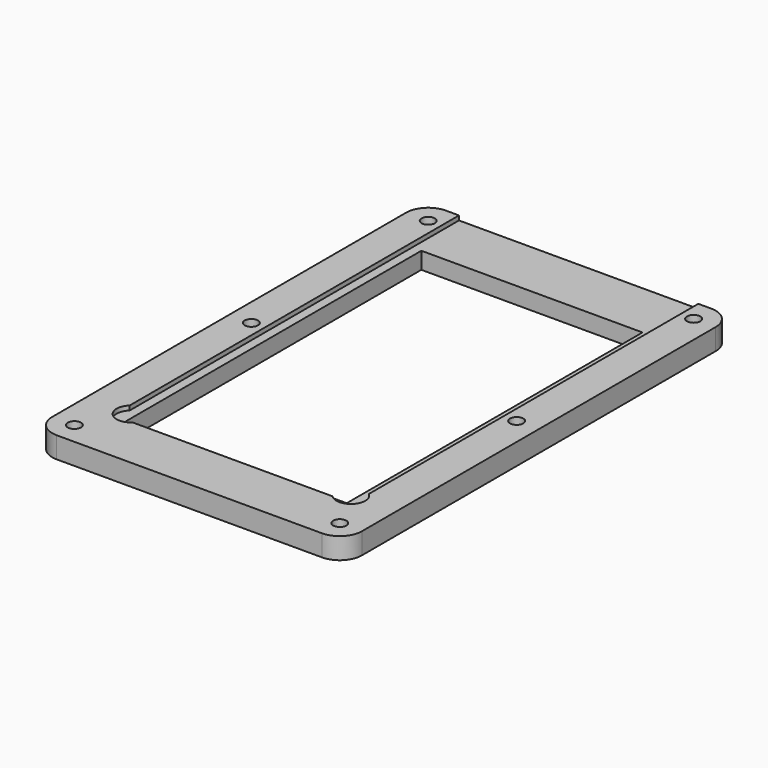
from build123d import *

# Parameters (mm, degrees)
F0_R     = 1.5
F1_DEPTH = 1
F2_DEPTH = 3.8
F3_DEPTH = 4.8


with BuildPart() as f1:
    # F0 (on Top) → F1 (new body)
    with BuildSketch(Plane.XY):
        with Locations((-30, 50)):
            Circle(F0_R)
    extrude(amount=F1_DEPTH)



with BuildPart() as f1b:
    # F0 (on Top) → F1, piece 2 (new body)
    with BuildSketch(Plane.XY):
        with Locations((30, 50)):
            Circle(F0_R)
    extrude(amount=F1_DEPTH)


with BuildPart() as f1c:
    # F0 (on Top) → F1, piece 3 (new body)
    with BuildSketch(Plane.XY):
        with Locations((30, 0)):
            Circle(F0_R)
    extrude(amount=F1_DEPTH)


with BuildPart() as f1d:
    # F0 (on Top) → F1, piece 4 (new body)
    with BuildSketch(Plane.XY):
        with Locations((30, -50)):
            Circle(F0_R)
    extrude(amount=F1_DEPTH)


with BuildPart() as f1e:
    # F0 (on Top) → F1, piece 5 (new body)
    with BuildSketch(Plane.XY):
        with Locations((-30, -50)):
            Circle(F0_R)
    extrude(amount=F1_DEPTH)


with BuildPart() as f1f:
    # F0 (on Top) → F1, piece 6 (new body)
    with BuildSketch(Plane.XY):
        with Locations((-30, 0)):
            Circle(F0_R)
    extrude(amount=F1_DEPTH)


with BuildPart() as f2:
    # F0 (on Top) → F2 (new body)
    with BuildSketch(Plane.XY):
        with BuildLine():
            Line((27.05, 42.8), (27.05, 55))
            Line((27.05, 55), (-27.05, 55))
            Line((-27.05, 55), (-27.05, 42.8))
            Line((-27.05, 42.8), (-27.05, -38.0607364771))
            ThreePointArc((-27.05, -38.0607364771), (-26.1012649001, -37.4476793164), (-25, -37.196376726))
            Line((-25, -37.196376726), (-25, 41.8))
            Line((-25, 41.8), (25, 41.8))
            Line((25, 41.8), (25, -37.2939372294))
            ThreePointArc((25, -37.2939372294), (26.0922729799, -37.5033114474), (27.05, -38.0686934251))
            Line((27.05, -38.0686934251), (27.05, 42.8))
        make_face()
        with BuildLine():
            ThreePointArc((-25, -37.196376726), (-26.1012649001, -37.4476793164), (-27.05, -38.0607364771))
            Line((-27.05, -38.0607364771), (-27.05, -42.8))
            Line((-27.05, -42.8), (-22.6016124349, -42.8))
            ThreePointArc((-22.6016124349, -42.8), (-22.1959427347, -42.3341702613), (-21.8857373462, -41.8))
            Line((-21.8857373462, -41.8), (-25, -41.8))
            Line((-25, -41.8), (-25, -37.196376726))
        make_face()
        with BuildLine():
            Line((-27.05, -42.8), (-27.05, -38.0607364771))
            ThreePointArc((-27.05, -38.0607364771), (-27.208254731, -42.6665921352), (-22.6016124349, -42.8))
            Line((-22.6016124349, -42.8), (-27.05, -42.8))
        make_face()
        with BuildLine():
            ThreePointArc((-21.8857373462, -41.8), (-22.1959427347, -42.3341702613), (-22.6016124349, -42.8))
            Line((-22.6016124349, -42.8), (22.6044172499, -42.8))
            ThreePointArc((22.6044172499, -42.8), (22.2287912639, -42.3305781393), (21.9460571083, -41.8))
            Line((21.9460571083, -41.8), (-21.8857373462, -41.8))
        make_face()
        with BuildLine():
            Line((27.05, -42.8), (27.05, -38.0686934251))
            ThreePointArc((27.05, -38.0686934251), (26.0922729799, -37.5033114474), (25, -37.2939372294))
            Line((25, -37.2939372294), (25, -41.8))
            Line((25, -41.8), (21.9460571083, -41.8))
            ThreePointArc((21.9460571083, -41.8), (22.2287912639, -42.3305781393), (22.6044172499, -42.8))
            Line((22.6044172499, -42.8), (27.05, -42.8))
        make_face()
        with BuildLine():
            ThreePointArc((28.1933165581, -40.5434428822), (27.8936742641, -39.1803987131), (27.05, -38.0686934251))
            Line((27.05, -38.0686934251), (27.05, -42.8))
            Line((27.05, -42.8), (22.6044172499, -42.8))
            ThreePointArc((22.6044172499, -42.8), (26.1600904172, -43.557072152), (28.1933165581, -40.5434428822))
        make_face()
    extrude(amount=F2_DEPTH)


with BuildPart() as f1_1:
    add(f1.part)

    add(f1b.part)  # F3 merges F1b

    add(f1c.part)  # F3 merges F1c

    add(f1d.part)  # F3 merges F1d

    add(f1e.part)  # F3 merges F1e

    add(f1f.part)  # F3 merges F1f

    add(f2.part)  # F3 merges F2
    # F0 (on Top) → F3 (join)
    with BuildSketch(Plane.XY):
        with BuildLine():
            ThreePointArc((35, 50), (33.5355339059, 53.5355339059), (30, 55))
            Line((30, 55), (27.05, 55))
            Line((27.05, 55), (27.05, 42.8))
            Line((27.05, 42.8), (27.05, -38.0686934251))
            ThreePointArc((27.05, -38.0686934251), (27.8936742641, -39.1803987131), (28.1933165581, -40.5434428822))
            ThreePointArc((28.1933165581, -40.5434428822), (26.1600904172, -43.557072152), (22.6044172499, -42.8))
            Line((22.6044172499, -42.8), (-22.6016124349, -42.8))
            ThreePointArc((-22.6016124349, -42.8), (-27.208254731, -42.6665921352), (-27.05, -38.0607364771))
            Line((-27.05, -38.0607364771), (-27.05, 42.8))
            Line((-27.05, 42.8), (-27.05, 55))
            Line((-27.05, 55), (-30, 55))
            ThreePointArc((-30, 55), (-33.5355339059, 53.5355339059), (-35, 50))
            Line((-35, 50), (-35, -50))
            ThreePointArc((-35, -50), (-33.5355339059, -53.5355339059), (-30, -55))
            Line((-30, -55), (30, -55))
            ThreePointArc((30, -55), (33.5355339059, -53.5355339059), (35, -50))
            Line((35, -50), (35, 50))
        make_face()
        with Locations((-30, -50)):
            Circle(F0_R, mode=Mode.SUBTRACT)
        with Locations((30, -50)):
            Circle(F0_R, mode=Mode.SUBTRACT)
        with Locations((-30, 0)):
            Circle(F0_R, mode=Mode.SUBTRACT)
        with Locations((-30, 50)):
            Circle(F0_R, mode=Mode.SUBTRACT)
        with Locations((30, 0)):
            Circle(F0_R, mode=Mode.SUBTRACT)
        with Locations((30, 50)):
            Circle(F0_R, mode=Mode.SUBTRACT)
    extrude(amount=F3_DEPTH)


solid = f1_1.part
